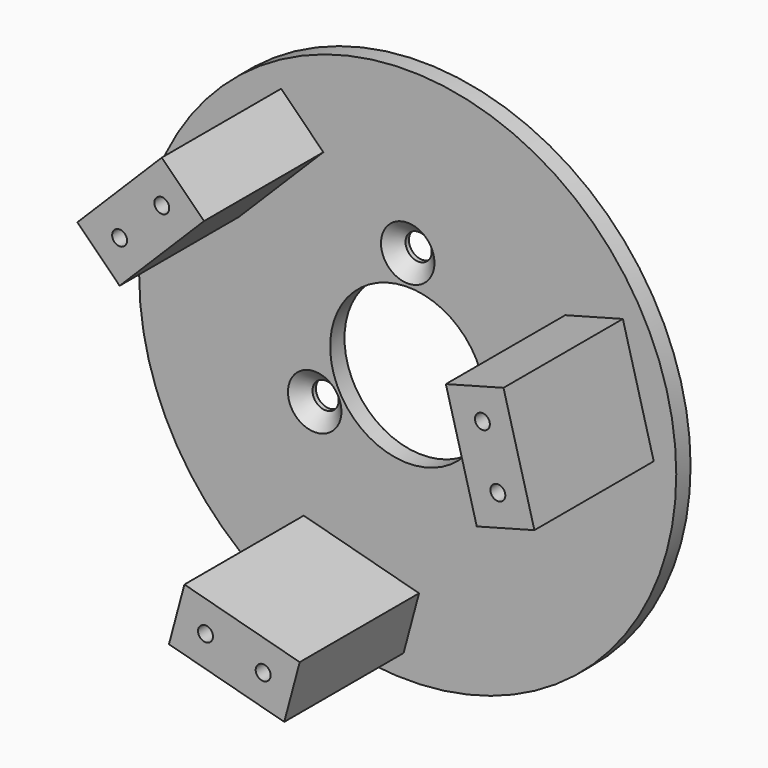
from build123d import *

# Parameters (mm, degrees)
F0_R           = 45
F0_R_2         = 13
F1_DEPTH       = 3
F2_D           = 4.4
F2_CSINK_D     = 8.96
F2_CSINK_ANGLE = 90
F4_D           = 4.4
F4_CSINK_D     = 8.96
F4_CSINK_ANGLE = 90
F6_DEPTH       = 25
F8_D           = 3.3
F8_DEPTH       = 12
F8_TIP         = 0.9914200214
F9_D           = 2.5
F9_DEPTH       = 11.4
F9_TIP         = 0.7510757738
F10_COUNT      = 3


with BuildPart() as f1:
    # F0 (on Front) → F1 (new body)
    with BuildSketch(Plane.XZ):
        Circle(F0_R)
        Circle(F0_R_2, mode=Mode.SUBTRACT)
    extrude(amount=-F1_DEPTH)

    # F2 (through all)
    with Locations(Plane.XZ):
        with Locations((0, 18), (-15.5884572681, -9), (15.5884572681, -9)):
            CounterSinkHole(F2_D / 2, F2_CSINK_D / 2, counter_sink_angle=F2_CSINK_ANGLE)

    # F4 (through all)
    with Locations(Plane(origin=(0, 3, 0), x_dir=(-1, 0, 0), z_dir=(0, 1, 0))):
        with Locations((-32.5133086946, 13.88829571), (-35.1014991456, 4.2290374471), (21.2132034356, 28.2842712475), (28.2842712475, 21.2132034356), (13.88829571, -32.5133086946), (4.2290374471, -35.1014991456)):
            CounterSinkHole(F4_D / 2, F4_CSINK_D / 2, counter_sink_angle=F4_CSINK_ANGLE)


with BuildPart() as f6:
    # F5 (on face) → F6 (new body)
    with BuildSketch(Plane.XZ):
        Polygon((-14.1421356237, 28.2842712475), (-21.2132034356, 35.3553390593), (-35.3553390593, 21.2132034356), (-28.2842712475, 14.1421356237), align=None)
    extrude(amount=F6_DEPTH)

    # F8
    with Locations(Plane(origin=(0, 0, 0), x_dir=(1, 0, 0), z_dir=(0, 1, 0))):
        with Locations((-28.2842712475, -21.2132034356), (-21.2132034356, -28.2842712475)):
            Hole(F8_D / 2, depth=F8_DEPTH)
            with Locations((0, 0, -(F8_DEPTH + F8_TIP / 2))):  # 118° drill point
                Cone(0, F8_D / 2, F8_TIP, mode=Mode.SUBTRACT)

    # F9
    with Locations(Plane.XZ.offset(25)):
        with Locations((-28.2842712475, 21.2132034356), (-21.2132034356, 28.2842712475)):
            Hole(F9_D / 2, depth=F9_DEPTH)
            with Locations((0, 0, -(F9_DEPTH + F9_TIP / 2))):  # 118° drill point
                Cone(0, F9_D / 2, F9_TIP, mode=Mode.SUBTRACT)


with BuildPart() as f10_1:
    # F10: instance of F6
    add(f6.part.rotate(Axis((0, 0, 0), (0, -1, 0)), 1 * 360 / F10_COUNT))


with BuildPart() as f10_2:
    # F10: instance of F6
    add(f6.part.rotate(Axis((0, 0, 0), (0, -1, 0)), 2 * 360 / F10_COUNT))


solid = Compound([f1.part, f6.part, f10_1.part, f10_2.part])
